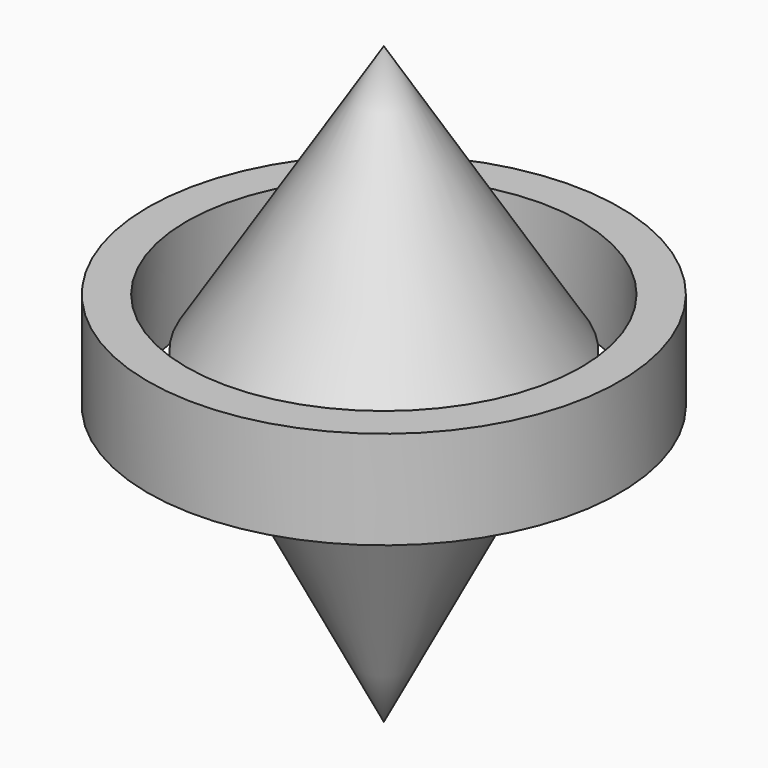
from build123d import *

# Parameters (mm, degrees)
F0_W = 5.737893
F0_H = 14.631628


with BuildPart() as f1:
    # F0 (on Front) → F1 (revolve)
    with BuildSketch(Plane.XZ):
        Polygon((0, -48.772112), (0, 39.878368), (-24.959844, 0), align=None)
    revolve(axis=Axis((0, 0, -4.446872), (0, 0, -1)))


with BuildPart() as f2:
    # F0 (on Front) → F2 (revolve)
    with BuildSketch(Plane.XZ):
        with Locations((-32.275661, 0)):
            Rectangle(F0_W, F0_H)
    revolve(axis=Axis((0, 0, -4.446872), (0, 0, -1)))


solid = Compound([f1.part, f2.part])
